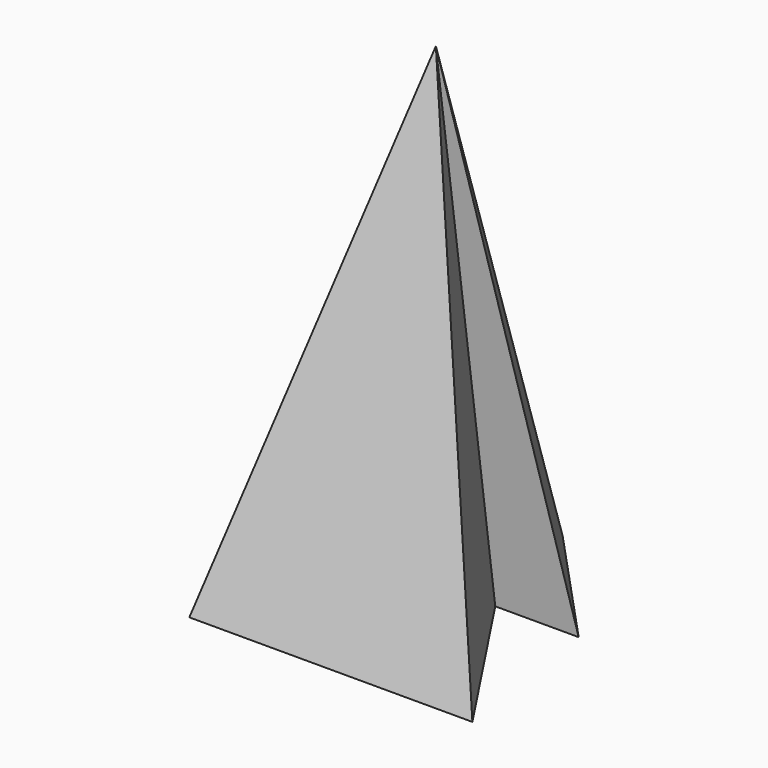
from build123d import *


with BuildPart() as f3:
    # F0 (on Top) → F3 section 0
    with BuildSketch(Plane.XY, mode=Mode.PRIVATE) as f3_s0:
        Polygon((23.801153, 17.674273), (0, 43.335628), (-23.796853, 17.670285), (-6.796853, 17.670285), (-28.843924, -15.705254), (28.842186, -15.705254), (6.801153, 17.674273), align=None)
    loft([f3_s0.sketch, Vertex(0, 11.045082, 101)])


solid = f3.part
